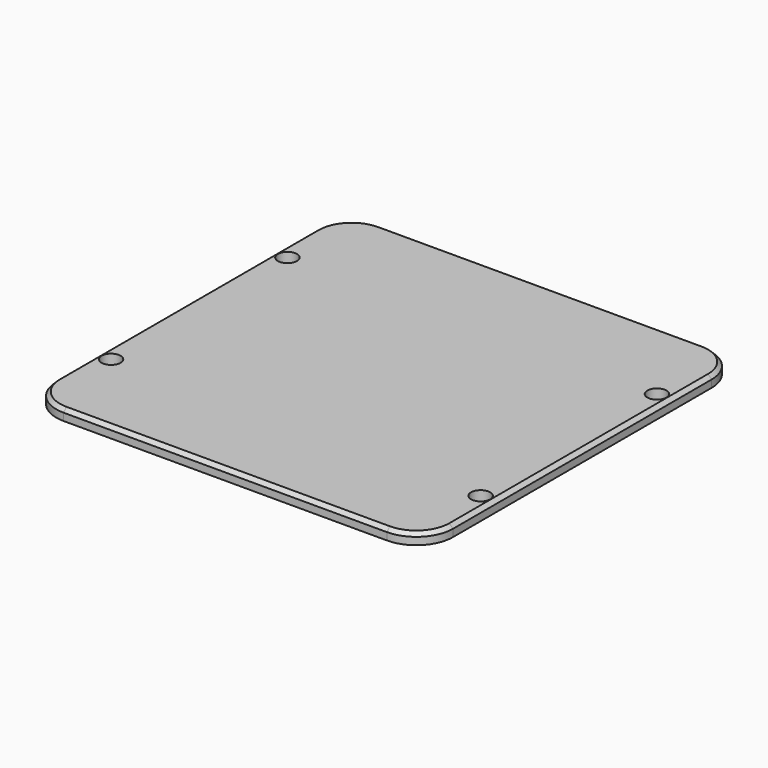
from build123d import *

# Parameters (mm, degrees)
F0_R     = 2.6
F1_DEPTH = 3
F2_SIZE  = 1


with BuildPart() as f1:
    # F0 (on Top) → F1 (new body)
    with BuildSketch(Plane.XY):
        with BuildLine():
            Line((-44, -54), (44, -54))
            ThreePointArc((44, -54), (51.071068, -51.071068), (54, -44))
            Line((54, -44), (54, 44))
            ThreePointArc((54, 44), (51.071068, 51.071068), (44, 54))
            Line((44, 54), (-44, 54))
            ThreePointArc((-44, 54), (-51.071068, 51.071068), (-54, 44))
            Line((-54, 44), (-54, -44))
            ThreePointArc((-54, -44), (-51.071068, -51.071068), (-44, -54))
        make_face()
        with Locations((-50.3, -30)):
            Circle(F0_R, mode=Mode.SUBTRACT)
        with Locations((50.3, -30)):
            Circle(F0_R, mode=Mode.SUBTRACT)
        with Locations((-50.3, 30)):
            Circle(F0_R, mode=Mode.SUBTRACT)
        with Locations((50.3, 30)):
            Circle(F0_R, mode=Mode.SUBTRACT)
    extrude(amount=F1_DEPTH)

    # F2
    f2_edges = [f1.edges().sort_by_distance(p)[0] for p in [
        (0, 54, 3),
    ]]
    chamfer(f2_edges, length=F2_SIZE)


solid = f1.part
